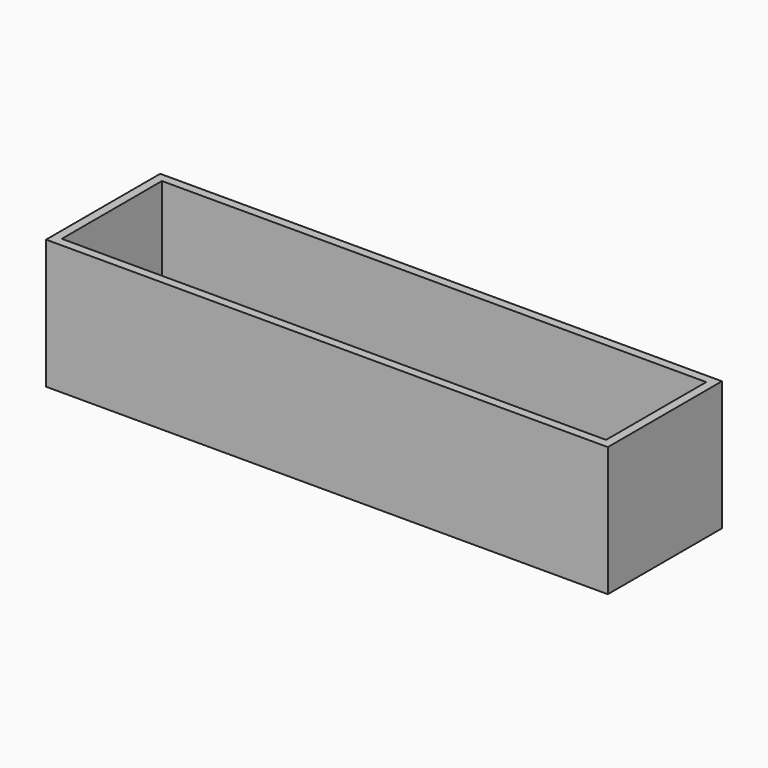
from build123d import *

# Parameters (mm, degrees)
BOX001_W           = 93.5
BOX001_H           = 21.5
BOX001_DEPTH       = 20.75
BOX015001015_W     = 96.5
BOX015001015_H     = 24.5
BOX015001015_DEPTH = 22.25


with BuildPart() as cube016:
    # Box001 → Box001 (new body)
    with BuildSketch(Plane(origin=(1.5, 1.5, 1.5), x_dir=(1, 0, 0), z_dir=(0, 0, 1))):
        with Locations((46.75, 10.75)):
            Rectangle(BOX001_W, BOX001_H)
    extrude(amount=BOX001_DEPTH)


with BuildPart() as cut004014:
    # Box015001015 → Box015001015 (new body)
    with BuildSketch(Plane.XY):
        with Locations((48.25, 12.25)):
            Rectangle(BOX015001015_W, BOX015001015_H)
    extrude(amount=BOX015001015_DEPTH)

    # Cut004014: cut Cube016
    add(cube016.part, mode=Mode.SUBTRACT)


with BuildPart() as cut004014_1:
    # Cut004014 placement: moved
    add(cut004014.part.moved(Location((3, -4, 0))))


solid = cut004014_1.part
